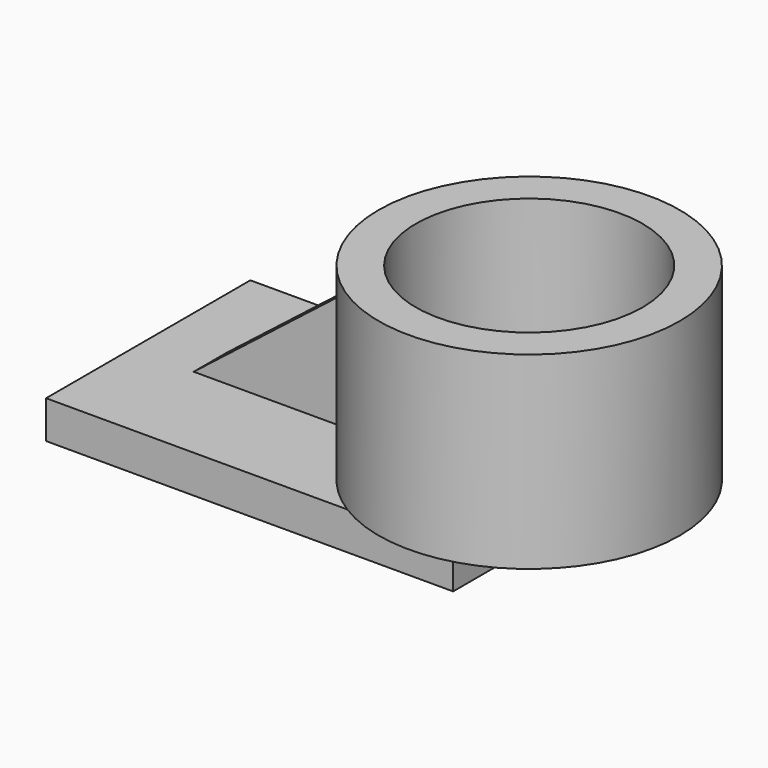
from build123d import *

# Parameters (mm, degrees)
F0_W     = 136.9216442108
F0_H     = 85.8872830868
F1_DEPTH = 12.7
F3_DEPTH = 63.5
F4_R     = 38.1241365852
F5_DEPTH = 63.5
F6_W     = 56.9095164537
F6_H     = 13.9519274235
F7_DEPTH = 44.45
F9_DEPTH = 25.4


with BuildPart() as f1:
    # F0 (on Top) → F1 (new body)
    with BuildSketch(Plane.XY):
        Rectangle(F0_W, F0_H)
    extrude(amount=F1_DEPTH)

    # F2 (on face) → F3 (join)
    with BuildSketch(Plane.XY.offset(12.7)):
        with BuildLine():
            ThreePointArc((32.8620942883, -42.9436415434), (84.2442332892, -44.2877306594), (110.3311590742, 0))
            ThreePointArc((110.3311590742, 0), (84.2442332892, 44.2877306594), (32.8620942883, 42.9436415434))
            Line((32.8620942883, 42.9436415434), (68.4608221054, 42.9436415434))
            Line((68.4608221054, 42.9436415434), (68.4608221054, -42.9436415434))
            Line((68.4608221054, -42.9436415434), (32.8620942883, -42.9436415434))
        make_face()
        with BuildLine():
            Line((68.4608221054, 42.9436415434), (32.8620942883, 42.9436415434))
            ThreePointArc((32.8620942883, 42.9436415434), (9.0570263673, 0), (32.8620942883, -42.9436415434))
            Line((32.8620942883, -42.9436415434), (68.4608221054, -42.9436415434))
            Line((68.4608221054, -42.9436415434), (68.4608221054, 42.9436415434))
        make_face()
    extrude(amount=F3_DEPTH)

    # F4 (on face) → F5 (cut)
    with BuildSketch(Plane.XY.offset(76.2)):
        with Locations((59.6940927207, 0)):
            Circle(F4_R)
    extrude(amount=-F5_DEPTH, mode=Mode.SUBTRACT)

    # F6 (on face) → F7 (join)
    with BuildSketch(Plane.XY.offset(12.7)):
        with Locations((-19.1295444965, 0)):
            Rectangle(F6_W, F6_H)
    extrude(amount=F7_DEPTH)

    # F8 (on face) → F9 (cut)
    with BuildSketch(Plane(origin=(0, 6.9759637117, 0), x_dir=(-1, 0, 0), z_dir=(0, 1, 0))):
        Polygon((47.5843027234, 57.15), (-9.3252137303, 57.15), (47.5843027234, 12.7), align=None)
    extrude(amount=-F9_DEPTH, mode=Mode.SUBTRACT)


solid = f1.part
